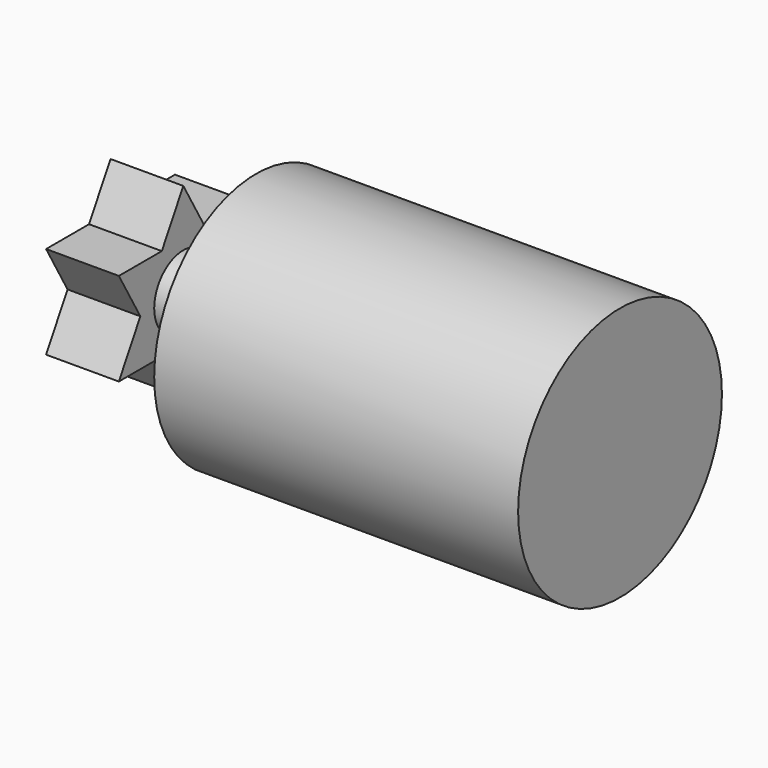
from build123d import *

# Parameters (mm, degrees)
F0_R     = 35
F1_DEPTH = 100
F2_R     = 10
F3_DEPTH = 40
F5_DEPTH = 20


with BuildPart() as f1:
    # F0 (on Right) → F1 (new body)
    with BuildSketch(Plane.YZ):
        Circle(F0_R)
    extrude(amount=F1_DEPTH)

    # F2 (on face) → F3 (join)
    with BuildSketch(Plane(origin=(0, 0, 0), x_dir=(0, -1, 0), z_dir=(-1, 0, 0))):
        Circle(F2_R)
    extrude(amount=F3_DEPTH)

    # F4 (on face) → F5 (join)
    with BuildSketch(Plane(origin=(-40, 0, 0), x_dir=(0, -1, 0), z_dir=(-1, 0, 0))):
        Polygon((-7.3776064835, -12.7783892676), (0, -25.5567785352), (7.3776064835, -12.7783892676), align=None)
        Polygon((-22.1328194504, -12.7783892676), (-7.3776064835, -12.7783892676), (-14.7552129669, 0), align=None)
        Polygon((-14.7552129669, 0), (-7.3776064835, -12.7783892676), (7.3776064835, -12.7783892676), (14.7552129669, 0), (7.3776064835, 12.7783892676), (-7.3776064835, 12.7783892676), align=None)
        Polygon((14.7552129669, 0), (7.3776064835, -12.7783892676), (22.1328194504, -12.7783892676), align=None)
        Polygon((-22.1328194504, 12.7783892676), (-14.7552129669, 0), (-7.3776064835, 12.7783892676), align=None)
        Polygon((7.3776064835, 12.7783892676), (14.7552129669, 0), (22.1328194504, 12.7783892676), align=None)
        Polygon((0, 25.5567785352), (-7.3776064835, 12.7783892676), (7.3776064835, 12.7783892676), align=None)
    extrude(amount=-F5_DEPTH)


solid = f1.part
